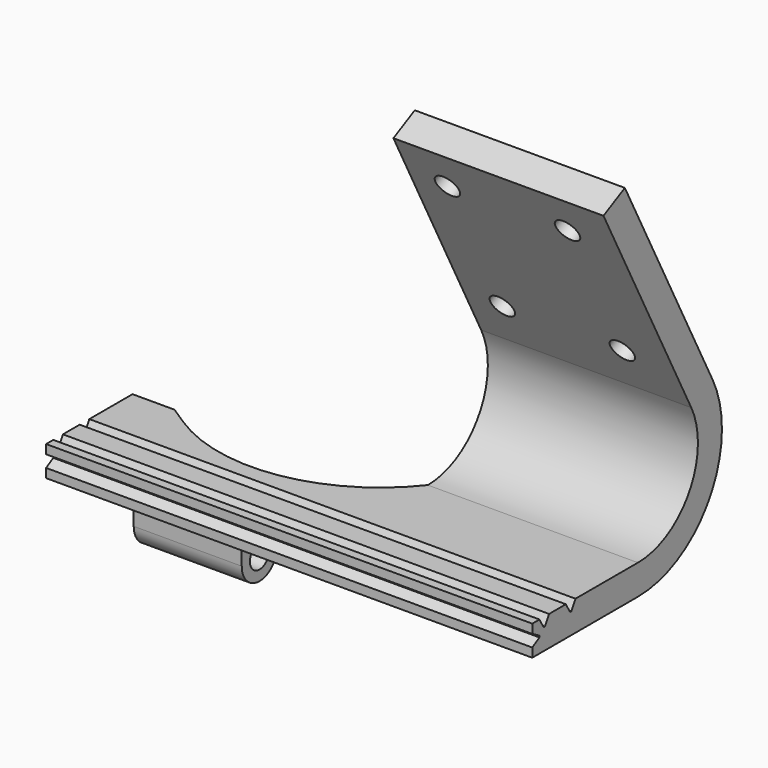
from build123d import *

# Parameters (mm, degrees)
PAD018_DEPTH    = 35
SKETCH027_R     = 2
POCKET014_DEPTH = 5
PAD019_DEPTH    = 5
SKETCH029_R     = 2
PAD020_DEPTH    = 18
POCKET015_DEPTH = 81


with BuildPart() as part:
    # Sketch026 → Pad018 (new body)
    with BuildSketch(Plane.YZ):
        with BuildLine():
            Line((-16, 30), (-34.2839170823, 65.5766549317))
            Line((-38.7309989488, 63.2911652964), (-34.2839170823, 65.5766549317))
            Line((-20.4470818665, 27.7145103647), (-38.7309989488, 63.2911652964))
            ThreePointArc((-31.5652664778, 9.5), (-20.8954209204, 15.4876380739), (-20.4470818665, 27.7145103647))
            Line((-53.5652664778, 9.5), (-31.5652664778, 9.5))
            Line((-53.5652664778, 4.5), (-53.5652664778, 9.5))
            Line((-31.5652664778, 4.5), (-53.5652664778, 4.5))
            ThreePointArc((-31.5652664778, 4.5), (-16.627666934, 12.8825899147), (-16, 30))
        make_face()
    extrude(amount=PAD018_DEPTH)

    # Sketch027 (on Face1 of Pad018) → Pocket014 (cut)
    with BuildSketch(Plane(origin=(0, -0.4604723456, -0.2366506407), x_dir=(0, -0.4570979271, 0.8894163733), z_dir=(0, 0.8894163733, 0.4570979271))):
        with Locations((41.942359, 26.427487)):
            Circle(SKETCH027_R)
        with Locations((66.942359, 26.427487)):
            Circle(SKETCH027_R)
        with Locations((66.942359, 6.427487)):
            Circle(SKETCH027_R)
        with Locations((41.942359, 6.427487)):
            Circle(SKETCH027_R)
    extrude(amount=-POCKET014_DEPTH, mode=Mode.SUBTRACT)

    # Sketch028 (on Face13 of Pocket014) → Pad019 (join)
    with BuildSketch(Plane(origin=(0, 0, 9.5), x_dir=(0, -1, 0), z_dir=(0, 0, 1))):
        with BuildLine():
            Line((53.5652664778, 0), (31.5652664778, 0))
            ThreePointArc((37.5221000572, -36), (41.5454869398, -16.8414283547), (31.5652664778, 0))
            Line((37.5221000572, -36), (35.5652664778, -39))
            Line((35.5652664778, -39), (35.5652664778, -46))
            Line((35.5652664778, -46), (53.5652664778, -46))
            Line((53.5652664778, -46), (53.5652664778, 0))
        make_face()
    extrude(amount=-PAD019_DEPTH)

    # Sketch029 (on Face15 of Pad019) → Pad020 (join)
    with BuildSketch(Plane(origin=(-33, 0, 0), x_dir=(0, 1, 0), z_dir=(-1, 0, 0))):
        with BuildLine():
            Line((-44.1652664778, -4.5), (-44.1652664778, -0.85))
            ThreePointArc((-44.1652664778, -0.85), (-47.8652664778, 2.85), (-51.5652664778, -0.85))
            Line((-51.5652664778, -4.5), (-51.5652664778, -0.85))
            Line((-51.5652664778, -4.5), (-44.1652664778, -4.5))
        make_face()
        with Locations((-47.8652664778, -0.85)):
            Circle(SKETCH029_R, mode=Mode.SUBTRACT)
    extrude(amount=-PAD020_DEPTH)

    # Sketch030 (on Face18 of Pad020) → Pocket015 (cut)
    with BuildSketch(Plane(origin=(-46, 0, 0), x_dir=(0, 1, 0), z_dir=(-1, 0, 0))):
        Polygon((-53.5652664778, -6), (-52.0652664778, -6.8660254038), (-52.0652664778, -7.1339745962), (-53.5652664778, -8), align=None)
        Polygon((-50.0652664778, -9.5), (-50.9312918816, -8), (-51.199241074, -8), (-52.0652664778, -9.5), align=None)
        Polygon((-45.699241, -8), (-46.565266, -9.5), (-44.565266, -9.5), (-45.431292, -8), align=None)
    extrude(amount=-POCKET015_DEPTH, mode=Mode.SUBTRACT)


with BuildPart() as part_1:
    # Body006 placement: moved
    add(part.part.moved(Location((-104.41, 0, 0))))


solid = part_1.part
